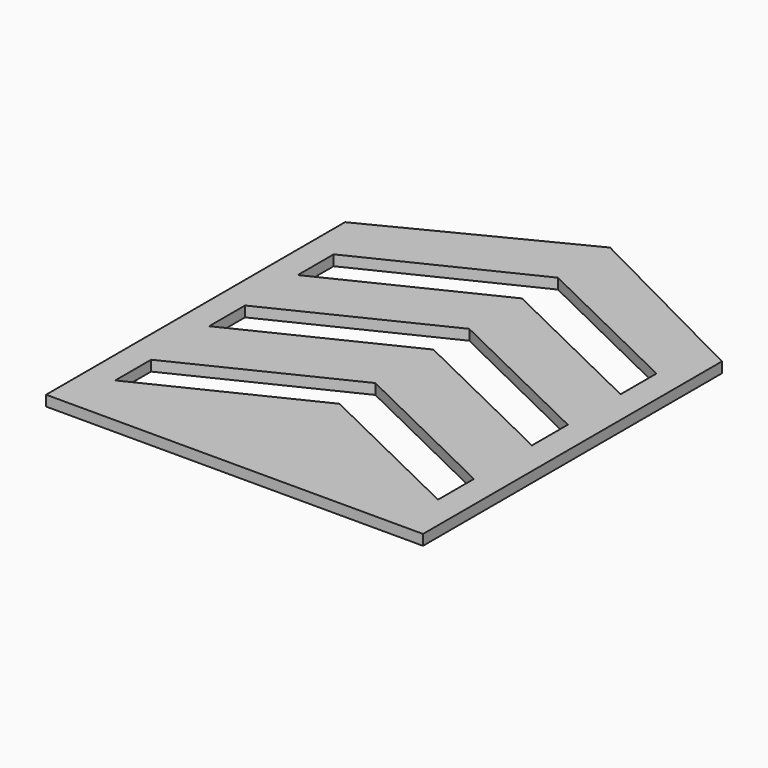
from build123d import *

# Parameters (mm, degrees)
F1_DEPTH = 5


with BuildPart() as f1:
    # F0 (on Top) → F1 (new body)
    with BuildSketch(Plane.XY):
        Polygon((-357.880314, 85.929643), (-447.880314, 40.181844), (-447.880314, -138.234643), (-267.880314, -138.234643), (-267.880314, 40.181844), align=None)
        Polygon((-434.953884, -91.706066), (-357.880314, -54.201352), (-280.806743, -91.706066), (-280.806743, -113.134637), (-357.880314, -75.629924), (-434.953884, -113.134637), align=None, mode=Mode.SUBTRACT)
        Polygon((-434.953884, -35.636677), (-357.880314, 1.868036), (-280.806743, -35.636677), (-280.806743, -57.065249), (-357.880314, -19.560536), (-434.953884, -57.065249), align=None, mode=Mode.SUBTRACT)
        Polygon((-434.953884, 17.266547), (-357.880314, 54.77126), (-280.806743, 17.266547), (-280.806743, -4.162025), (-357.880314, 33.342688), (-434.953884, -4.162025), align=None, mode=Mode.SUBTRACT)
    extrude(amount=F1_DEPTH)


solid = f1.part
